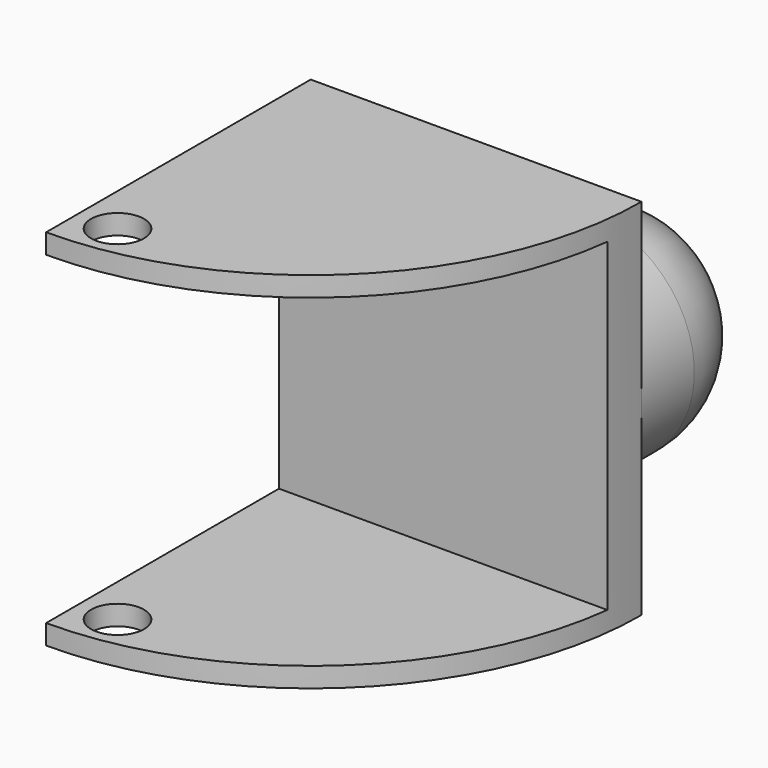
from build123d import *

# Parameters (mm, degrees)
F1_DEPTH = 55
F2_W     = 44
F2_H     = 49
F3_DEPTH = 50.001
F4_R     = 4
F5_DEPTH = 55
F6_R     = 16
F7_DEPTH = 25
F8_R     = 15


with BuildPart() as f1:
    # F0 (on Top) → F1 (new body)
    with BuildSketch(Plane.XY):
        with BuildLine():
            Line((0, 0), (0, -50))
            ThreePointArc((0, -50), (35.355339, -35.355339), (50, 0))
            Line((50, 0), (0, 0))
        make_face()
    extrude(amount=F1_DEPTH)

    # F2 (on face) → F3 (cut, through all)
    with BuildSketch(Plane(origin=(0, 0, 0), x_dir=(0, -1, 0), z_dir=(-1, 0, 0))):
        with Locations((28, 27.5)):
            Rectangle(F2_W, F2_H)
    extrude(amount=-F3_DEPTH, mode=Mode.SUBTRACT)

    # F4 (on face) → F5 (cut)
    with BuildSketch(Plane.XY.offset(55)):
        with Locations((6, -44)):
            Circle(F4_R)
    extrude(amount=-F5_DEPTH, mode=Mode.SUBTRACT)

    # F6 (on face) → F7 (join)
    with BuildSketch(Plane(origin=(0, 0, 0), x_dir=(-1, 0, 0), z_dir=(0, 1, 0))):
        with Locations((-34, 28.184593)):
            Circle(F6_R)
    extrude(amount=F7_DEPTH)

    # F8
    f8_edges = [f1.edges().sort_by_distance(p)[0] for p in [
        (50, 25, 28.184593),
    ]]
    fillet(f8_edges, radius=F8_R)


solid = f1.part
